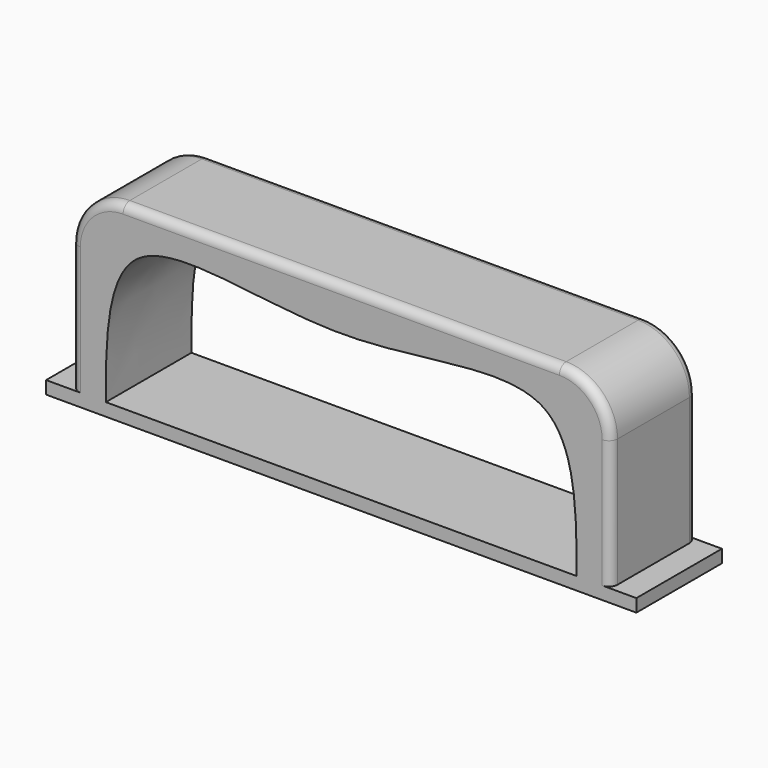
from build123d import *

# Parameters (mm, degrees)
F0_W     = 6
F0_H     = 3
F1_DEPTH = 25
F2_R     = 12
F3_R     = 2


with BuildPart() as f1:
    # F0 (on Front) → F1 (new body)
    with BuildSketch(Plane.XZ):
        with BuildLine():
            add(Edge.make_bspline(
                [(-55, 0), (-55.0076209993, 1.0009689247), (-55.0152419987, 2.0019378493), (-55.0204363014, 3)],
                knots=[0, 0, 0, 0, 0.0157183213, 0.0157183213, 0.0157183213, 0.0157183213], degree=3))
            Line((-55, 0), (55, 0))
            add(Edge.make_bspline(
                [(55.0204363014, 3), (55.0152419987, 2.0019378493), (55.0076209993, 1.0009689247), (55, 0)],
                knots=[0.9842816787, 0.9842816787, 0.9842816787, 0.9842816787, 1, 1, 1, 1], degree=3))
            Line((55.0204363014, 3), (-55.0204363014, 3))
        make_face()
        with BuildLine():
            Line((-63, 0), (-55, 0))
            add(Edge.make_bspline(
                [(-55, 0), (-55.0076209993, 1.0009689247), (-55.0152419987, 2.0019378493), (-55.0204363014, 3)],
                knots=[0, 0, 0, 0, 0.0157183213, 0.0157183213, 0.0157183213, 0.0157183213], degree=3))
            Line((-55.0204363014, 3), (-63, 3))
            Line((-63, 3), (-63, 0))
        make_face()
        with BuildLine():
            add(Edge.make_bspline(
                [(55.0204363014, 3), (55.0152419987, 2.0019378493), (55.0076209993, 1.0009689247), (55, 0)],
                knots=[0.9842816787, 0.9842816787, 0.9842816787, 0.9842816787, 1, 1, 1, 1], degree=3))
            Line((55, 0), (63, 0))
            Line((63, 0), (63, 3))
            Line((63, 3), (55.0204363014, 3))
        make_face()
        with BuildLine():
            Line((-63, 3), (-55.0204363014, 3))
            add(Edge.make_bspline(
                [(-55.0204363014, 3), (-55.0920234657, 16.7551548981), (-54.7026845561, 29.9581979592), (-47.5, 35)],
                knots=[0.0157183213, 0.0157183213, 0.0157183213, 0.0157183213, 0.2323460581, 0.2323460581, 0.2323460581, 0.2323460581], degree=3))
            add(Edge.make_bspline(
                [(-47.5, 35), (-38.6007383304, 41.229387848), (-19.3003691017, 34.9999999795), (1.271e-07, 35)],
                knots=[0.2323460581, 0.2323460581, 0.2323460581, 0.2323460581, 0.5, 0.5, 0.5, 0.5], degree=3))
            add(Edge.make_bspline(
                [(1.271e-07, 35), (19.3003692287, 35.0000000205), (38.60073836, 41.2293878575), (47.5000000137, 35.0000000044)],
                knots=[0.5, 0.5, 0.5, 0.5, 0.7676539419, 0.7676539419, 0.7676539419, 0.7676539419], degree=3))
            add(Edge.make_bspline(
                [(47.5, 35), (54.7026845561, 29.9581979592), (55.0920234657, 16.7551548981), (55.0204363014, 3)],
                knots=[0.7676539419, 0.7676539419, 0.7676539419, 0.7676539419, 0.9842816787, 0.9842816787, 0.9842816787, 0.9842816787], degree=3))
            Line((55.0204363014, 3), (63, 3))
            Line((63, 3), (63, 45))
            Line((63, 45), (-63, 45))
            Line((-63, 45), (-63, 3))
        make_face()
        with Locations((-66, 1.5)):
            Rectangle(F0_W, F0_H)
        with Locations((66, 1.5)):
            Rectangle(F0_W, F0_H)
    extrude(amount=F1_DEPTH)

    # F2
    f2_edges = [f1.edges().sort_by_distance(p)[0] for p in [
        (-63, -12.5, 45),
        (63, -12.5, 45),
    ]]
    fillet(f2_edges, radius=F2_R)

    # F3
    f3_edges = [f1.edges().sort_by_distance(p)[0] for p in [
        (0, 0, 45),
        (-59.485281, 0, 41.485281),
        (-63, 0, 18),
        (59.485281, 0, 41.485281),
        (63, 0, 18),
        (-63, -25, 18),
        (-59.485281, -25, 41.485281),
        (0, -25, 45),
        (59.485281, -25, 41.485281),
        (63, -25, 18),
    ]]
    fillet(f3_edges, radius=F3_R)


solid = f1.part
